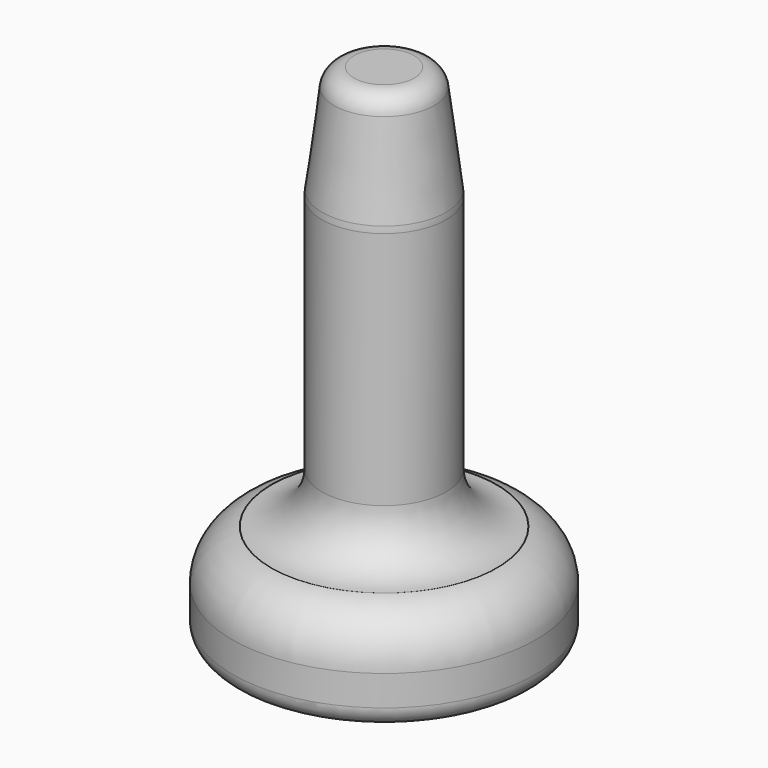
from build123d import *


with BuildPart() as f1:
    # F0 (on Front) → F1 (revolve)
    with BuildSketch(Plane.XZ):
        with BuildLine():
            Line((0, 0), (0, 50))
            Line((0, 50), (-2.988412, 50))
            ThreePointArc((-2.988412, 50), (-4.310339, 49.500836), (-4.972408, 48.252509))
            Line((-4.972408, 48.252509), (-6.10999, 39.314368))
            ThreePointArc((-6.10999, 39.314368), (-6.139987, 38.999365), (-6.15, 38.683096))
            Line((-6.15, 38.683096), (-6.15, 15))
            ThreePointArc((-6.15, 15), (-7.614466, 11.464466), (-11.15, 10))
            Line((-11.15, 10), (-10, 10))
            ThreePointArc((-10, 10), (-13.535534, 8.535534), (-15, 5))
            Line((-15, 5), (-15, 2))
            ThreePointArc((-15, 2), (-14.414214, 0.585786), (-13, 0))
            Line((-13, 0), (0, 0))
        make_face()
    revolve(axis=Axis((0, 0, 25), (0, 0, -1)))


solid = f1.part
